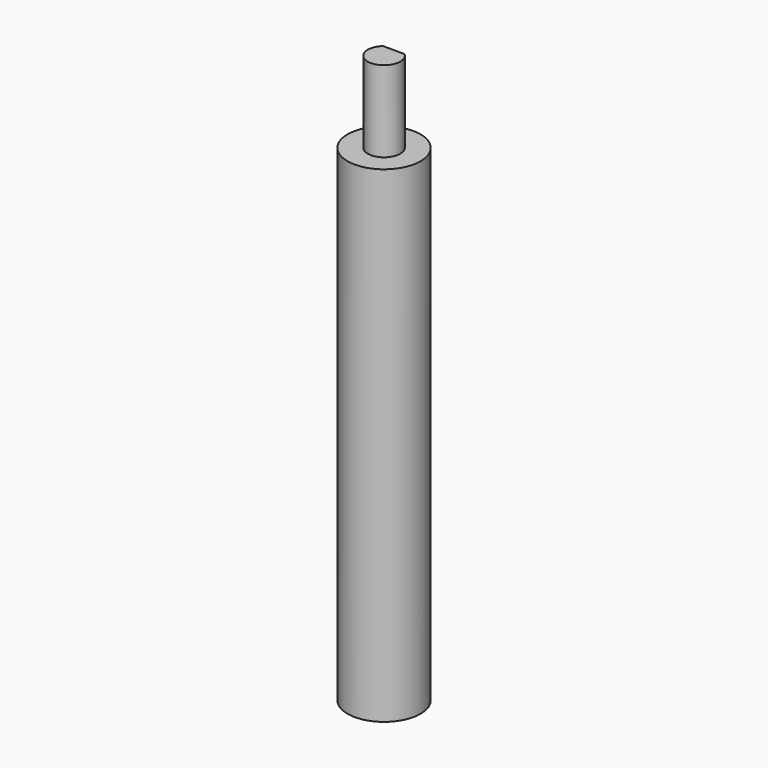
from build123d import *

# Parameters (mm, degrees)
F0_R     = 4.5
F1_DEPTH = 60
F2_DEPTH = 10


with BuildPart() as f1:
    # F0 (on Top) → F1 (new body)
    with BuildSketch(Plane.XY):
        Circle(F0_R)
        with BuildLine():
            ThreePointArc((1.322876, 1.5), (0, -2), (-1.322876, 1.5))
            Line((-1.322876, 1.5), (1.322876, 1.5))
        make_face(mode=Mode.SUBTRACT)
        with BuildLine():
            Line((1.322876, 1.5), (-1.322876, 1.5))
            ThreePointArc((-1.322876, 1.5), (0, -2), (1.322876, 1.5))
        make_face()
    extrude(amount=-F1_DEPTH)


with BuildPart() as f2:
    # F0 (on Top) → F2 (new body)
    with BuildSketch(Plane.XY):
        with BuildLine():
            Line((1.322876, 1.5), (-1.322876, 1.5))
            ThreePointArc((-1.322876, 1.5), (0, -2), (1.322876, 1.5))
        make_face()
    extrude(amount=F2_DEPTH)


solid = Compound([f1.part, f2.part])
